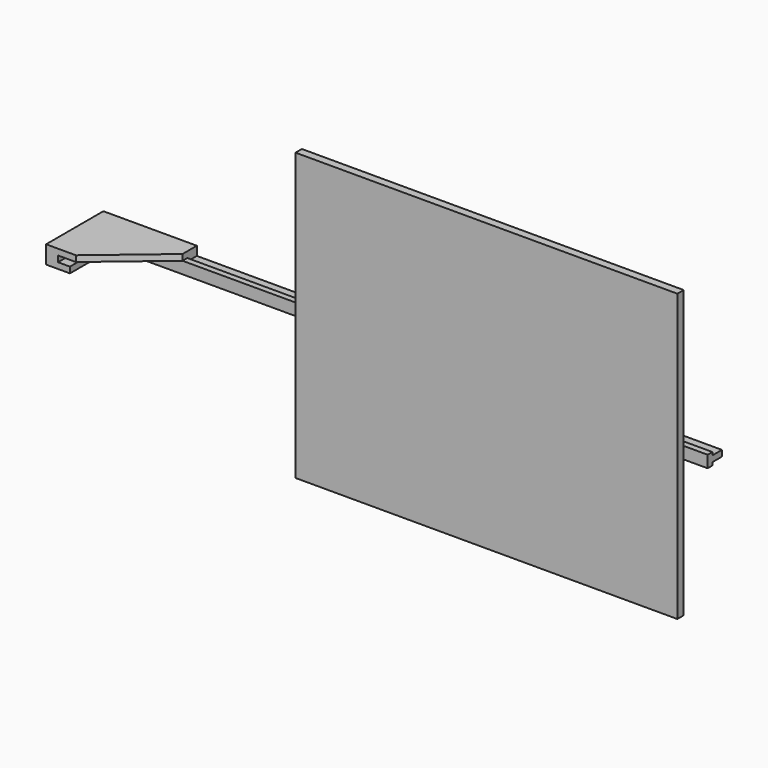
from build123d import *

# Parameters (mm, degrees)
F1_DEPTH      = 19.05
F3_DEPTH      = 228.6
F5_DEPTH      = 203.2
F5_DEPTH_BACK = 1676.4
F6_W          = 38.1
F6_H          = 9.525
F7_DEPTH      = 203.2
F8_W          = 1219.2
F8_H          = 914.4
F9_DEPTH      = 25.4
F10_W         = 600.075
F10_H         = 901.7
F11_DEPTH     = 19.05


with BuildPart() as f1:
    # F0 (on Top) → F1 (new body)
    with BuildSketch(Plane.XY):
        Polygon((0, 228.6), (0, 0), (95.25, 0), (298.45, 171.45), (298.45, 228.6), align=None)
    extrude(amount=F1_DEPTH)

    # F2 (on face) → F3 (join)
    with BuildSketch(Plane.XZ):
        Polygon((38.1, 0), (0, 0), (0, -38.1), (38.1, -38.1), (76.2, -38.1), (76.2, -19.05), (38.1, -19.05), align=None)
    extrude(amount=-F3_DEPTH)

    # F4 (on face) → F5 (join, two sides)
    with BuildSketch(Plane.YZ.offset(298.45)) as f5_sk:
        Polygon((190.5, 0), (171.45, 0), (171.45, -38.1), (190.5, -38.1), (190.5, -28.575), (228.6, -28.575), (228.6, -9.525), (190.5, -9.525), align=None)
    extrude(amount=-F5_DEPTH)
    extrude(f5_sk.sketch, amount=F5_DEPTH_BACK)

    # F6 (on face) → F7 (join)
    with BuildSketch(Plane.YZ.offset(298.45)):
        with Locations((209.55, -4.7625)):
            Rectangle(F6_W, F6_H)
    extrude(amount=-F7_DEPTH)

    # F8 (on face) → F9 (join)
    with BuildSketch(Plane.XZ.offset(-171.45)):
        with Locations((1289.05, -19.05)):
            Rectangle(F8_W, F8_H)
    extrude(amount=F9_DEPTH)

    # F10 (on face) → F11 (cut)
    with BuildSketch(Plane(origin=(0, 171.45, 0), x_dir=(-1, 0, 0), z_dir=(0, 1, 0))):
        with Locations((-1592.2625, -19.05)):
            Rectangle(F10_W, F10_H)
        with Locations((-985.8375, -19.05)):
            Rectangle(F10_W, F10_H)
    extrude(amount=-F11_DEPTH, mode=Mode.SUBTRACT)


solid = f1.part
